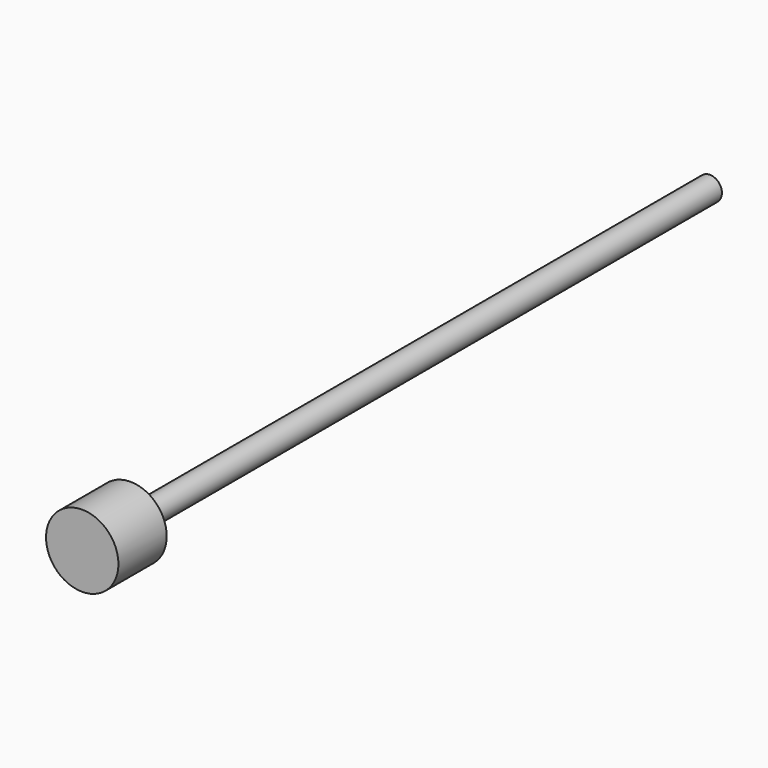
from build123d import *

# Parameters (mm, degrees)
F0_R     = 10
F1_DEPTH = 600
F2_R     = 30
F3_DEPTH = 50


with BuildPart() as f1:
    # F0 (on Front) → F1 (new body)
    with BuildSketch(Plane.XZ):
        Circle(F0_R)
    extrude(amount=F1_DEPTH)


with BuildPart() as f3:
    # F2 (on face) → F3 (new body)
    with BuildSketch(Plane.XZ.offset(600)):
        Circle(F2_R)
    extrude(amount=F3_DEPTH)


solid = Compound([f1.part, f3.part])
